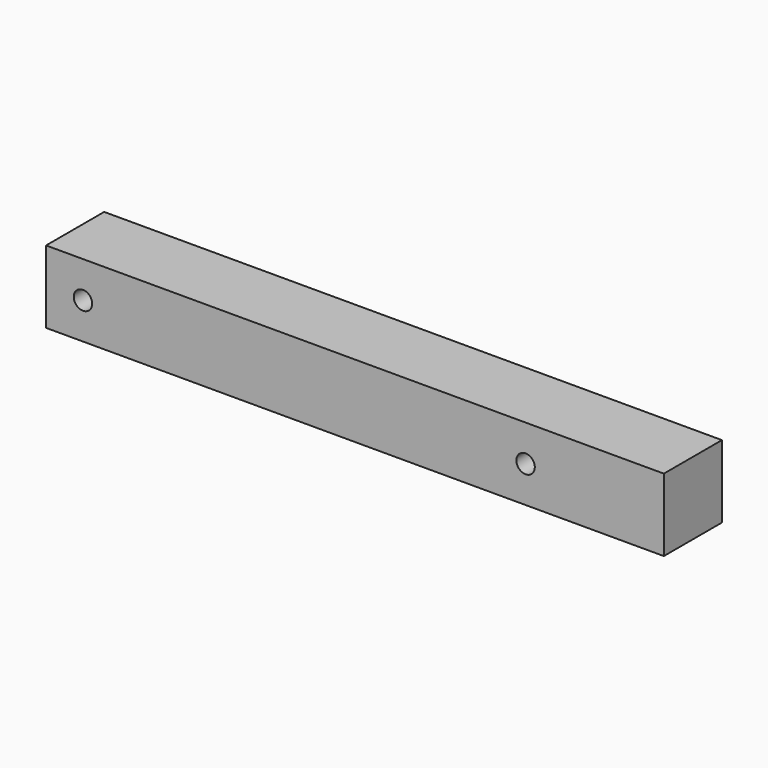
from build123d import *

# Parameters (mm, degrees)
F0_W     = 12.5
F0_H     = 12.5
F1_DEPTH = 106.35
F3_D     = 3.175


with BuildPart() as f1:
    # F0 (on Right) → F1 (new body)
    with BuildSketch(Plane.YZ):
        Rectangle(F0_W, F0_H)
    extrude(amount=F1_DEPTH)

    # F3 (through all)
    with Locations(Plane.XZ.offset(6.25)):
        with Locations((6.35, 0), (82.55, 0)):
            Hole(F3_D / 2)


solid = f1.part
